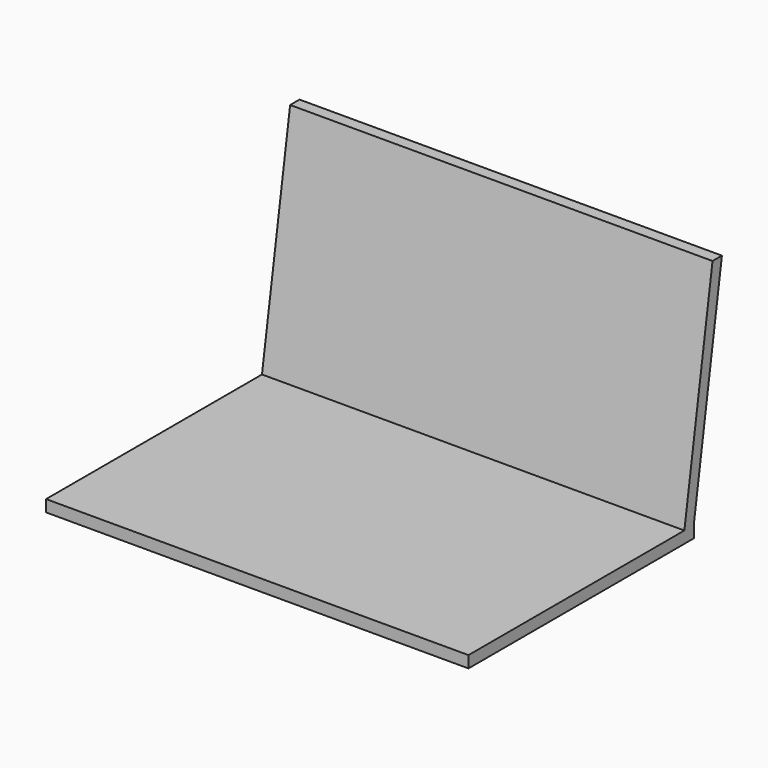
from build123d import *

# Parameters (mm, degrees)
F0_W     = 457.2
F0_H     = 304.8
F1_DEPTH = 12.7
F2_W     = 457.2
F2_H     = 12.7
F4_W     = 457.2
F4_H     = 12.7


with BuildPart() as f1:
    # F0 (on Top) → F1 (new body)
    with BuildSketch(Plane.XY):
        Rectangle(F0_W, F0_H)
    extrude(amount=F1_DEPTH)

    # F2 (on face) → F5 section 0
    with BuildSketch(Plane.XY.offset(12.7)):
        with Locations((0, 146.05)):
            Rectangle(F2_W, F2_H)
    # F4 (on offset) → F5 section 1
    with BuildSketch(Plane.XY.offset(254)):
        with Locations((0, 184.15)):
            Rectangle(F4_W, F4_H)
    loft()


solid = f1.part
